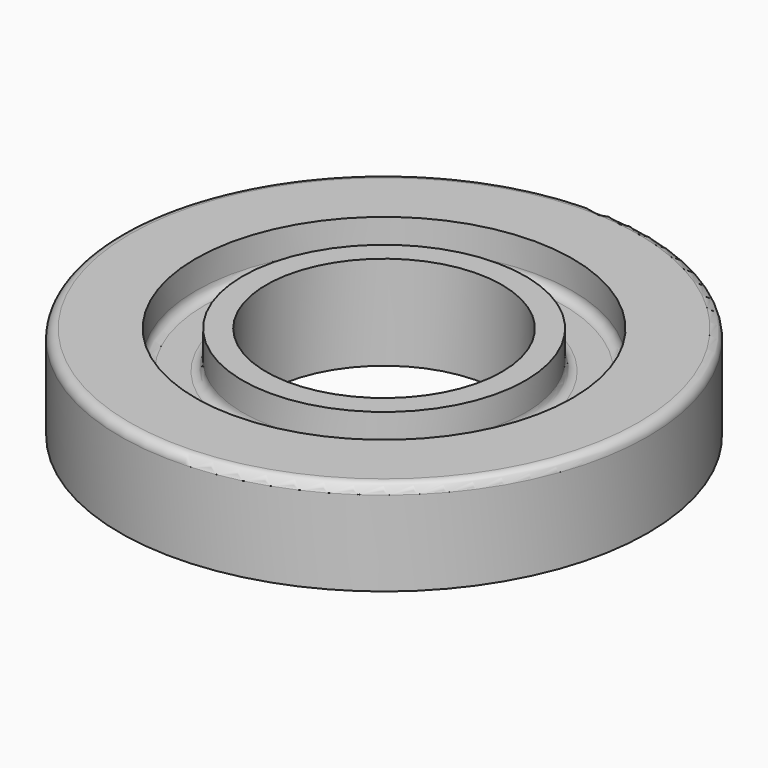
from build123d import *

# Parameters (mm, degrees)
F0_R     = 17.78
F0_R_2   = 7.9375
F1_DEPTH = 6.35
F2_R     = 12.7
F2_R_2   = 9.525
F3_DEPTH = 2.54
F4_R     = 0.635


with BuildPart() as f1:
    # F0 (on Top) → F1 (new body)
    with BuildSketch(Plane.XY):
        Circle(F0_R)
        Circle(F0_R_2, mode=Mode.SUBTRACT)
    extrude(amount=F1_DEPTH)

    # F2 (on face) → F3 (cut)
    with BuildSketch(Plane.XY.offset(6.35)):
        Circle(F2_R)
        Circle(F2_R_2, mode=Mode.SUBTRACT)
    extrude(amount=-F3_DEPTH, mode=Mode.SUBTRACT)

    # F4
    f4_edges = [f1.edges().sort_by_distance(p)[0] for p in [
        (-17.78, 0, 6.35),
        (-12.7, 0, 3.81),
        (-9.525, 0, 3.81),
    ]]
    fillet(f4_edges, radius=F4_R)


solid = f1.part
